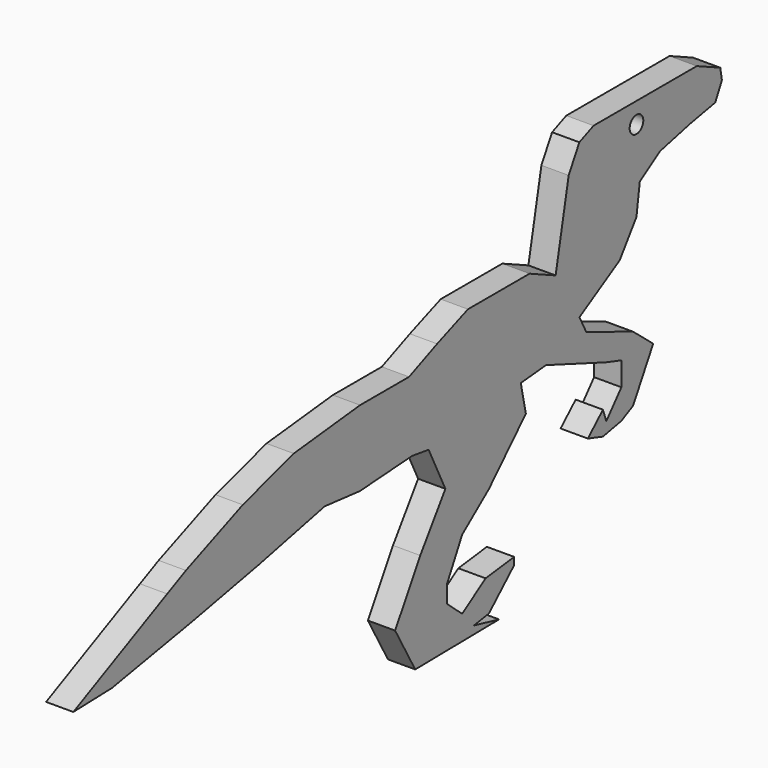
from build123d import *

# Parameters (mm, degrees)
F1_DEPTH = 10.16
F3_D     = 6.35


with BuildPart() as f1:
    # F0 (on Right) → F1 (new body)
    with BuildSketch(Plane.YZ):
        Polygon((-77.474721, 10.765259), (-103.973828, 0), (-112.688757, -4.140489), (-156.410038, -25.118949), (-138.453096, -24.566885), (-100.977682, -17.942108), (-69.748186, -11.869396), (-39.299428, -5.244619), (-22.903949, -6.900813), (1.298919, -5.244619), (9.106293, -6.348748), (16.913667, -22.358626), (5.202606, -39.472636), (-6.508455, -59.346966), (2.860397, -75.908907), (41.89726, -75.356841), (30.186206, -72.59652), (37.212841, -71.492389), (48.923902, -60.451094), (48.923902, -57.690769), (35.651371, -59.346966), (24.721041, -66.523813), (17.694414, -60.451094), (17.694414, -53.826321), (24.721041, -40.576763), (37.212841, -30.639596), (54.389074, -12.973526), (52.046858, -1.93223), (63.757919, -0.828101), (91.864459, -11.317331), (98.891109, -13.52559), (98.891109, -22.358626), (91.864459, -30.639596), (90.302989, -26.22308), (83.276354, -32.847855), (90.302989, -35.056114), (98.891109, -33.399921), (104.356274, -30.639596), (113.725118, -14.077655), (104.356274, -6.348748), (82.495622, 2.484288), (79.372667, 8.557), (98.110363, 19.598294), (105.917737, 30.639591), (107.47923, 41.680887), (116.848074, 47.753599), (130.901337, 51.065989), (142.612413, 53.274248), (145.735353, 59.346959), (144.954622, 63.763477), (134.024292, 68.73206), (85.936449, 68.73206), (79.311676, 65.971732), (74.343085, 57.1387), (68.270378, 26.775137), (56.124948, 32.295786), (39.010942, 32.295786), (27.417587, 32.295786), (13.063898, 26.775137), (0, 21.254489), (-22.820309, 21.254489), (-53.735938, 17.942103), align=None)
    extrude(amount=F1_DEPTH)

    # F3 (through all)
    with Locations(Plane.YZ.offset(10.16)):
        with Locations((105.92816, 61.003152)):
            Hole(F3_D / 2)


solid = f1.part
